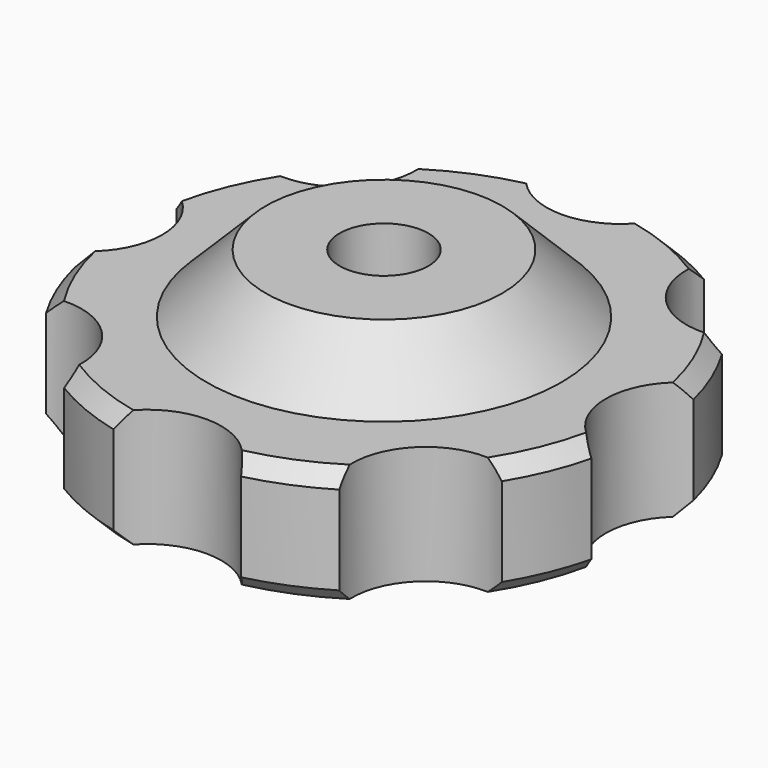
from build123d import *

# Parameters (mm, degrees)
F3_SIZE  = 0.5
F2_R     = 2.5
F4_DEPTH = 6
F5_COUNT = 8
F8_DEPTH = 4


with BuildPart() as f1:
    # F0 (on Front) → F1 (revolve)
    with BuildSketch(Plane.XZ):
        Polygon((1.5, 6), (1.5, 0), (9, 0), (9, 4), (6, 4), (4, 6), align=None)
    revolve(axis=Axis((0, 0, 3.871229), (0, 0, -1)))

    # F3
    f3_edges = [f1.edges().sort_by_distance(p)[0] for p in [
        (-9, 0, 4),
        (-9, 0, 0),
    ]]
    chamfer(f3_edges, length=F3_SIZE)


with BuildPart() as f4:
    # F2 (on Top) → F4 (new body, through all)
    with BuildSketch(Plane.XY):
        with Locations((0, 10)):
            Circle(F2_R)
    extrude(amount=F4_DEPTH)


with BuildPart() as f5_1:
    # F5: instance of F4
    add(f4.part.rotate(Axis((0, 0, 6), (0, 0, -1)), 1 * 360 / F5_COUNT))


with BuildPart() as f5_2:
    # F5: instance of F4
    add(f4.part.rotate(Axis((0, 0, 6), (0, 0, -1)), 2 * 360 / F5_COUNT))


with BuildPart() as f5_3:
    # F5: instance of F4
    add(f4.part.rotate(Axis((0, 0, 6), (0, 0, -1)), 3 * 360 / F5_COUNT))


with BuildPart() as f5_4:
    # F5: instance of F4
    add(f4.part.rotate(Axis((0, 0, 6), (0, 0, -1)), 4 * 360 / F5_COUNT))


with BuildPart() as f5_5:
    # F5: instance of F4
    add(f4.part.rotate(Axis((0, 0, 6), (0, 0, -1)), 5 * 360 / F5_COUNT))


with BuildPart() as f5_6:
    # F5: instance of F4
    add(f4.part.rotate(Axis((0, 0, 6), (0, 0, -1)), 6 * 360 / F5_COUNT))


with BuildPart() as f5_7:
    # F5: instance of F4
    add(f4.part.rotate(Axis((0, 0, 6), (0, 0, -1)), 7 * 360 / F5_COUNT))


with BuildPart() as f1_1:
    add(f1.part)

    # F6: cut F4, F5_1, F5_2, F5_3, F5_4, F5_5, F5_6, F5_7
    add(f4.part, mode=Mode.SUBTRACT)
    add(f5_1.part, mode=Mode.SUBTRACT)
    add(f5_2.part, mode=Mode.SUBTRACT)
    add(f5_3.part, mode=Mode.SUBTRACT)
    add(f5_4.part, mode=Mode.SUBTRACT)
    add(f5_5.part, mode=Mode.SUBTRACT)
    add(f5_6.part, mode=Mode.SUBTRACT)
    add(f5_7.part, mode=Mode.SUBTRACT)

    # F7 (on face) → F8 (cut)
    with BuildSketch(Plane(origin=(0, 0, 0), x_dir=(1, 0, 0), z_dir=(0, 0, -1))):
        Polygon((-1.587713, 2.75), (-3.175426, 0), (-1.587713, -2.75), (1.587713, -2.75), (3.175426, 0), (1.587713, 2.75), align=None)
    extrude(amount=-F8_DEPTH, mode=Mode.SUBTRACT)


solid = f1_1.part
